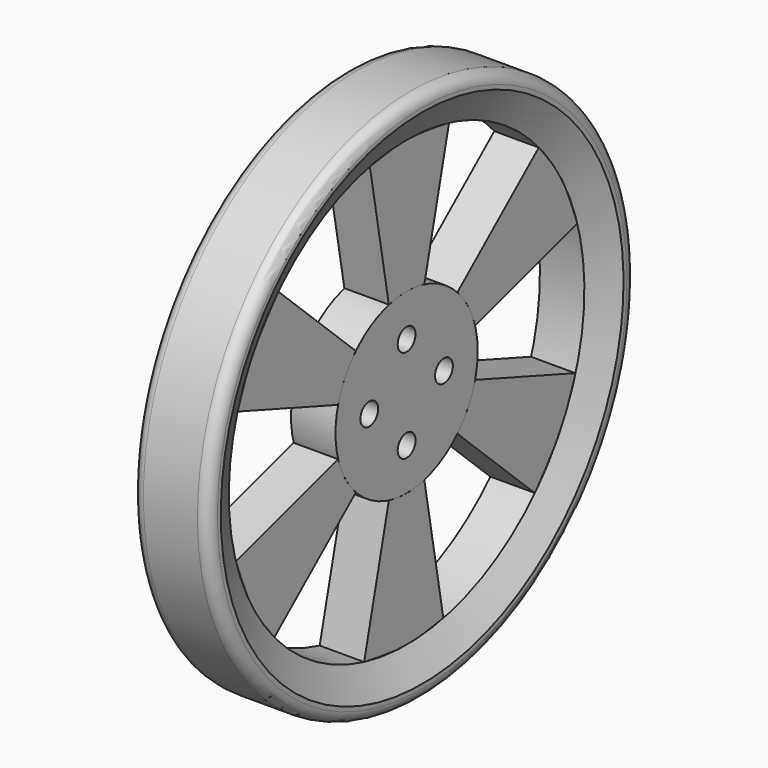
from build123d import *

# Parameters (mm, degrees)
F5_DEPTH  = 12.7
F6_COUNT  = 6
F7_R      = 50.8
F8_DEPTH  = 12.7
F9_R      = 6.35
F10_DEPTH = 25.4
F11_R     = 6.35
F12_DEPTH = 25.4


with BuildPart() as f3:
    # F0 (on Front) → F3 (revolve)
    with BuildSketch(Plane.XZ):
        with BuildLine():
            Line((15.24, 152.5940194619), (-15.6742689276, 152.5940194619))
            ThreePointArc((-15.6742689276, 152.5940194619), (-21.1120840526, 149.5231453617), (-21.2904202393, 143.2806861286))
            Line((-21.2904202393, 143.2806861286), (-12.7, 127))
            Line((-12.7, 127), (12.7, 127))
            Line((12.7, 127), (21.59, 143.848453935))
            Line((21.59, 143.848453935), (21.59, 146.2440194619))
            ThreePointArc((21.59, 146.2440194619), (19.7301280605, 150.7341475225), (15.24, 152.5940194619))
        make_face()
    revolve(axis=Axis((3.2215258107, 0, 0), (1, 0, 0)))


with BuildPart() as f5:
    # F4 (on Right) → F5 (new body, symmetric)
    with BuildSketch(Plane.YZ):
        with BuildLine():
            Line((26.2363759585, -124.2604224062), (12.7, -49.3077370655))
            add(Edge.make_bspline(
                [(12.7, -49.3077370655), (7.8618080126, -50.1879664339), (-0.1183392284, -51.3937817209), (-7.6251295558, -50.2244701242), (-12.7, -49.3077370655)],
                knots=[0, 0, 0, 0, 0.5, 1, 1, 1, 1], degree=3))
            Line((-12.7, -49.3077370655), (-30.3328966529, -123.3244314021))
            add(Edge.make_bspline(
                [(26.2363759585, -124.2604224062), (17.6472646693, -125.6676775231), (-0.1858152214, -128.589480732), (-20.0408341979, -125.1218928464), (-30.3328966529, -123.3244314021)],
                knots=[0, 0, 0, 0, 0.4816392537, 1, 1, 1, 1], degree=3))
        make_face()
    extrude(amount=F5_DEPTH, both=True)


with BuildPart() as f6_1:
    # F6: instance of F5
    add(f5.part.rotate(Axis((0, 0, 0), (1, 0, 0)), 1 * 360 / F6_COUNT))


with BuildPart() as f6_2:
    # F6: instance of F5
    add(f5.part.rotate(Axis((0, 0, 0), (1, 0, 0)), 2 * 360 / F6_COUNT))


with BuildPart() as f6_3:
    # F6: instance of F5
    add(f5.part.rotate(Axis((0, 0, 0), (1, 0, 0)), 3 * 360 / F6_COUNT))


with BuildPart() as f6_4:
    # F6: instance of F5
    add(f5.part.rotate(Axis((0, 0, 0), (1, 0, 0)), 4 * 360 / F6_COUNT))


with BuildPart() as f6_5:
    # F6: instance of F5
    add(f5.part.rotate(Axis((0, 0, 0), (1, 0, 0)), 5 * 360 / F6_COUNT))


with BuildPart() as f8:
    # F7 (on Right) → F8 (new body, symmetric)
    with BuildSketch(Plane.YZ):
        Circle(F7_R)
    extrude(amount=F8_DEPTH, both=True)

    # F9 (on Right) → F10 (cut, symmetric)
    with BuildSketch(Plane.YZ):
        with Locations((0, -26.67)):
            Circle(F9_R)
    extrude(amount=F10_DEPTH, both=True, mode=Mode.SUBTRACT)

    # F11 (on Right) → F12 (cut, symmetric)
    with BuildSketch(Plane.YZ):
        with Locations((0, 26.67)):
            Circle(F11_R)
        with Locations((-26.67, 0)):
            Circle(F11_R)
        with Locations((26.67, 0)):
            Circle(F11_R)
    extrude(amount=F12_DEPTH, both=True, mode=Mode.SUBTRACT)


solid = Compound([f3.part, f5.part, f6_1.part, f6_2.part, f6_3.part, f6_4.part, f6_5.part, f8.part])
